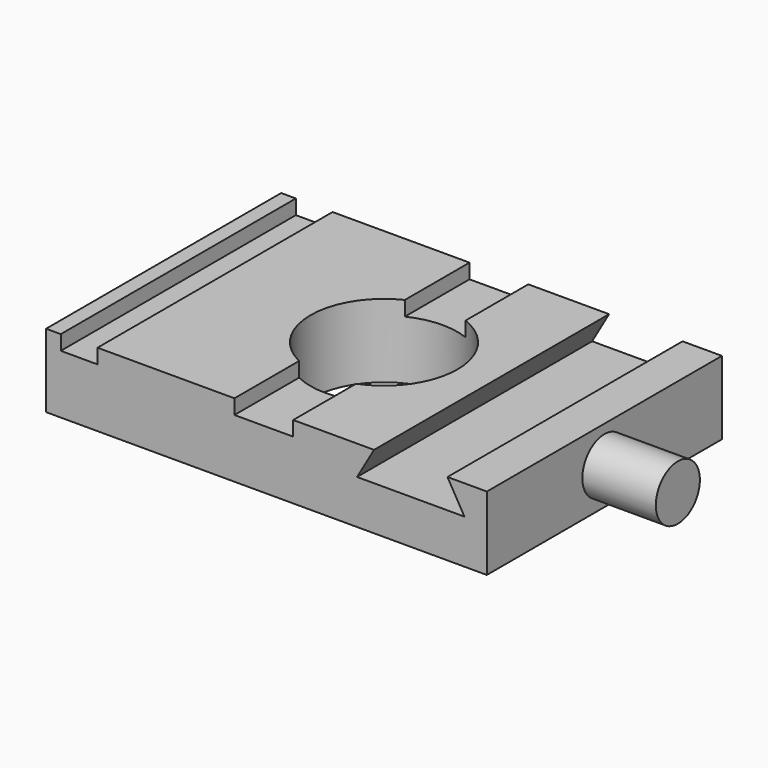
from build123d import *

# Parameters (mm, degrees)
F0_W     = 76.2
F0_H     = 50.8
F0_R     = 12.7
F1_DEPTH = 12.7
F2_W     = 6.35
F2_H     = 50.8
F3_DEPTH = 2.54
F5_DEPTH = 50.801
F6_R     = 4.7625
F7_DEPTH = 12.7


with BuildPart() as f1:
    # F0 (on Top) → F1 (new body)
    with BuildSketch(Plane.XY):
        Rectangle(F0_W, F0_H)
        Circle(F0_R, mode=Mode.SUBTRACT)
    extrude(amount=F1_DEPTH)

    # F2 (on face) → F3 (cut)
    with BuildSketch(Plane.XY.offset(12.7)):
        with BuildLine():
            ThreePointArc((4.624233052, 11.8282064862), (-0.4973552707, 12.6902575913), (-5.535766948, 11.4300168109))
            Line((-5.535766948, 11.4300168109), (-5.535766948, -11.4300168109))
            ThreePointArc((-5.535766948, -11.4300168109), (-0.4973552707, -12.6902575913), (4.624233052, -11.8282064862))
            Line((4.624233052, -11.8282064862), (4.624233052, 11.8282064862))
        make_face()
        with Locations((-32.385, 0)):
            Rectangle(F2_W, F2_H)
        with BuildLine():
            Line((-5.535766948, -11.4300168109), (-5.535766948, -25.4))
            Line((-5.535766948, -25.4), (4.624233052, -25.4))
            Line((4.624233052, -25.4), (4.624233052, -11.8282064862))
            ThreePointArc((4.624233052, -11.8282064862), (-0.4973552707, -12.6902575913), (-5.535766948, -11.4300168109))
        make_face()
        with BuildLine():
            Line((4.624233052, 25.4), (-5.535766948, 25.4))
            Line((-5.535766948, 25.4), (-5.535766948, 11.4300168109))
            ThreePointArc((-5.535766948, 11.4300168109), (-0.4973552707, 12.6902575913), (4.624233052, 11.8282064862))
            Line((4.624233052, 11.8282064862), (4.624233052, 25.4))
        make_face()
    extrude(amount=-F3_DEPTH, mode=Mode.SUBTRACT)

    # F4 (on face) → F5 (cut, through all)
    with BuildSketch(Plane.XZ.offset(25.4)):
        Polygon((31.294233052, 12.7), (18.594233052, 12.7), (15.6612936845, 7.62), (34.2271724195, 7.62), align=None)
    extrude(amount=-F5_DEPTH, mode=Mode.SUBTRACT)

    # F6 (on face) → F7 (join)
    with BuildSketch(Plane.YZ.offset(38.1)):
        with Locations((0, 6.35)):
            Circle(F6_R)
    extrude(amount=F7_DEPTH)


solid = f1.part
